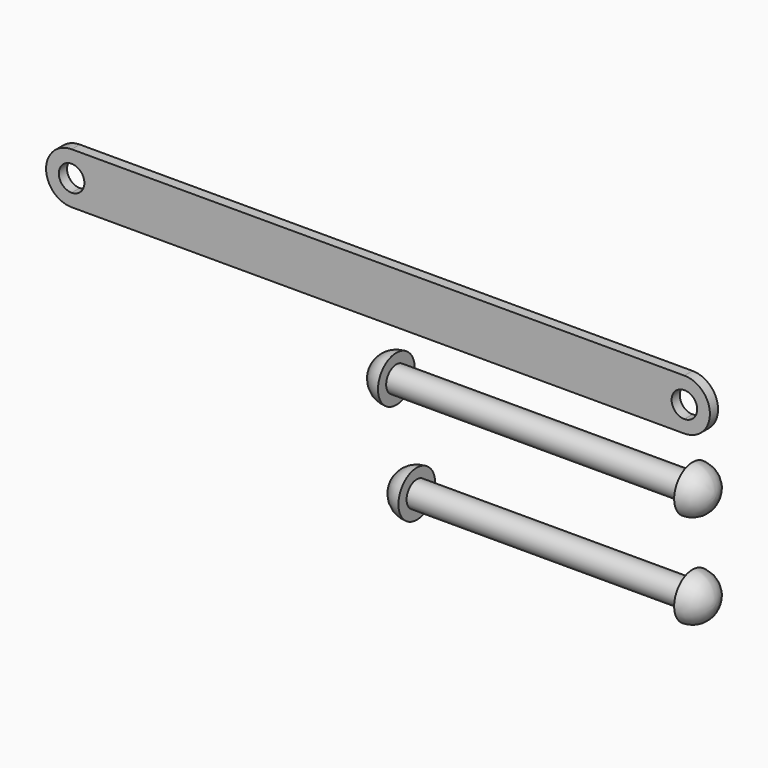
from build123d import *

# Parameters (mm, degrees)
F1_DEPTH = 2.54
F2_W     = 73.66
F2_H     = 3.175
F4_W     = 68.58
F4_H     = 3.175


with BuildPart() as f1:
    # F0 (on Front) → F1 (new body)
    with BuildSketch(Plane.XZ):
        with BuildLine():
            Line((0, 3.175), (0, 0))
            ThreePointArc((0, 0), (6.35, 6.35), (0, 12.7))
            Line((0, 12.7), (0, 9.525))
            ThreePointArc((0, 9.525), (2.245064, 8.595064), (3.175, 6.35))
            ThreePointArc((3.175, 6.35), (2.245064, 4.104936), (0, 3.175))
        make_face()
        with BuildLine():
            Line((-152.4, 0), (0, 0))
            Line((0, 0), (0, 3.175))
            ThreePointArc((0, 3.175), (-3.175, 6.35), (0, 9.525))
            Line((0, 9.525), (0, 12.7))
            Line((0, 12.7), (-152.4, 12.7))
            Line((-152.4, 12.7), (-152.4, 9.525))
            ThreePointArc((-152.4, 9.525), (-150.154936, 8.595064), (-149.225, 6.35))
            ThreePointArc((-149.225, 6.35), (-150.154936, 4.104936), (-152.4, 3.175))
            Line((-152.4, 3.175), (-152.4, 0))
        make_face()
        with BuildLine():
            ThreePointArc((-152.4, 12.7), (-158.75, 6.35), (-152.4, 0))
            Line((-152.4, 0), (-152.4, 3.175))
            ThreePointArc((-152.4, 3.175), (-155.575, 6.35), (-152.4, 9.525))
            Line((-152.4, 9.525), (-152.4, 12.7))
        make_face()
    extrude(amount=F1_DEPTH)


with BuildPart() as f3:
    # F2 (on Front) → F3 (revolve)
    with BuildSketch(Plane.XZ):
        with Locations((-36.83, -11.406402)):
            Rectangle(F2_W, F2_H)
        with BuildLine():
            Line((0, -7.278902), (0, -9.818902))
            Line((0, -9.818902), (0, -12.993902))
            Line((0, -12.993902), (5.715, -12.993902))
            ThreePointArc((5.715, -12.993902), (4.041115, -8.952787), (0, -7.278902))
        make_face()
        with BuildLine():
            Line((-73.66, -12.993902), (-73.66, -9.818902))
            Line((-73.66, -9.818902), (-73.66, -7.278902))
            ThreePointArc((-73.66, -7.278902), (-77.701115, -8.952787), (-79.375, -12.993902))
            Line((-79.375, -12.993902), (-73.66, -12.993902))
        make_face()
    revolve(axis=Axis((-40.072185, 0, -12.993902), (1, 0, 0)))


with BuildPart() as f5:
    # F4 (on Front) → F5 (revolve)
    with BuildSketch(Plane.XZ):
        with Locations((-34.29, -34.920351)):
            Rectangle(F4_W, F4_H)
        with BuildLine():
            Line((0, -30.792851), (0, -33.332851))
            Line((0, -33.332851), (0, -36.507851))
            Line((0, -36.507851), (5.715, -36.507851))
            ThreePointArc((5.715, -36.507851), (4.041115, -32.466736), (0, -30.792851))
        make_face()
        with BuildLine():
            Line((-68.58, -36.507851), (-68.58, -33.332851))
            Line((-68.58, -33.332851), (-68.58, -30.792851))
            ThreePointArc((-68.58, -30.792851), (-72.621115, -32.466736), (-74.295, -36.507851))
            Line((-74.295, -36.507851), (-68.58, -36.507851))
        make_face()
    revolve(axis=Axis((-34.295738, 0, -36.507851), (1, 0, 0)))


solid = Compound([f1.part, f3.part, f5.part])
